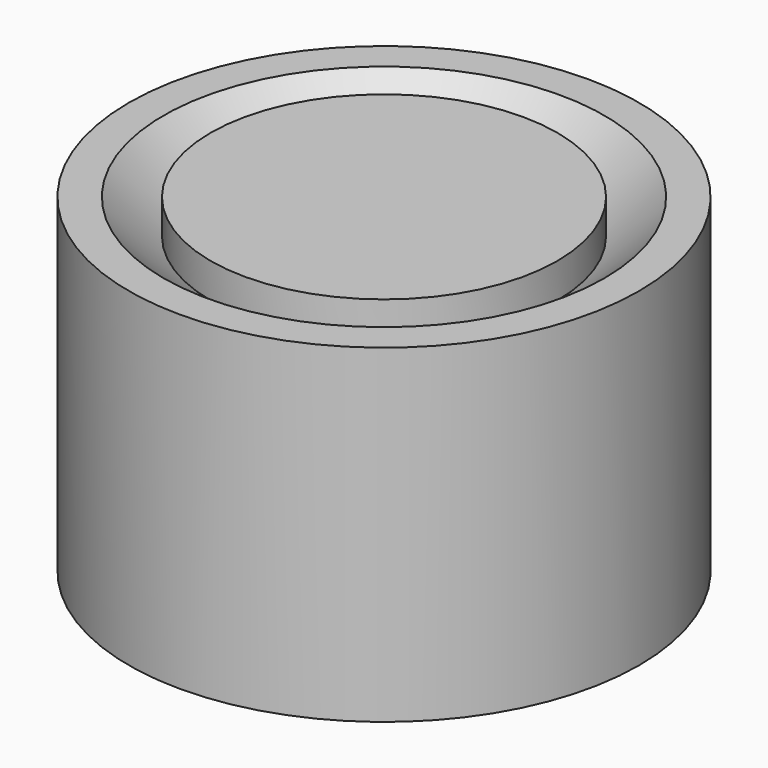
from build123d import *


with BuildPart() as f1:
    # F0 (on Front) → F1 (revolve)
    with BuildSketch(Plane.XZ):
        Polygon((0, 19), (0, 0), (10, 0), (10, 2), (5, 7), (5, 12), (10, 17), (10, 19), align=None)
        Polygon((5.5, 7.207107), (12.707107, 0), (14.707107, 0), (14.707107, 19), (12.707107, 19), (5.5, 11.792893), align=None)
    revolve(axis=Axis((0, 0, 9.5), (0, 0, -1)))


solid = f1.part
